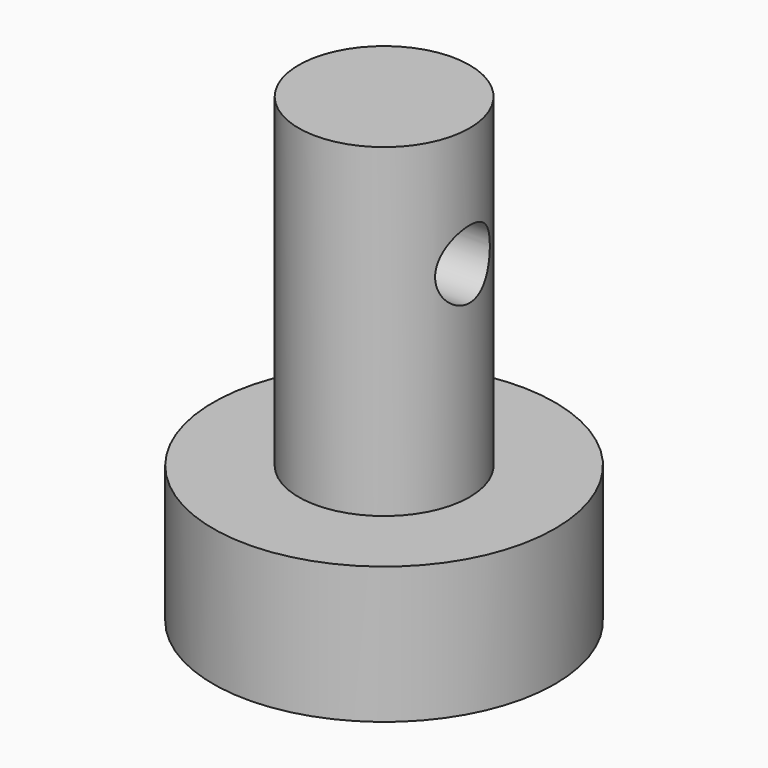
from build123d import *

# Parameters (mm, degrees)
SKETCH009_R          = 10
PAD007_DEPTH         = 8
SKETCH010_R          = 5
PAD008_DEPTH         = 19
SKETCH011_R          = 2
POCKET001_DEPTH      = 10.001
POCKET001_DEPTH_BACK = 10.001


with BuildPart() as part:
    # Sketch009 → Pad007 (new body)
    with BuildSketch(Plane.XY):
        Circle(SKETCH009_R)
    extrude(amount=-PAD007_DEPTH)

    # Sketch010 → Pad008 (join)
    with BuildSketch(Plane.XY):
        Circle(SKETCH010_R)
    extrude(amount=PAD008_DEPTH)

    # Sketch011 → Pocket001 (cut, two sides)
    with BuildSketch(Plane.YZ) as pocket001_sk:
        with Locations((0, 12)):
            Circle(SKETCH011_R)
    extrude(amount=-POCKET001_DEPTH, mode=Mode.SUBTRACT)
    extrude(pocket001_sk.sketch, amount=POCKET001_DEPTH_BACK, mode=Mode.SUBTRACT)


solid = part.part
